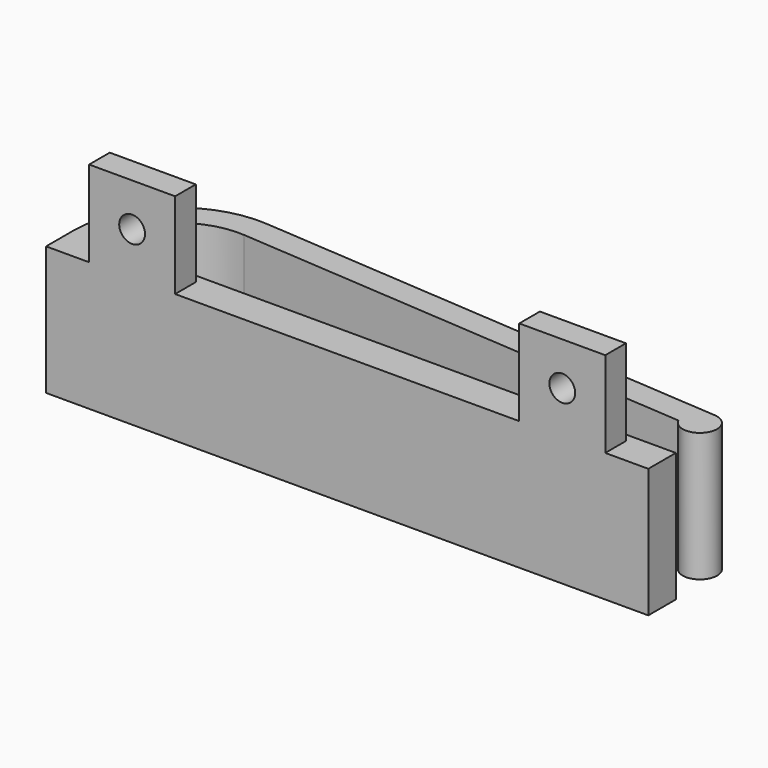
from build123d import *

# Parameters (mm, degrees)
F1_DEPTH = 15
F0_W     = 10
F0_H     = 3
F2_DEPTH = 25
F4_R     = 1.5
F3_R     = 1.5
F5_DEPTH = 5


with BuildPart() as f1:
    # F0 (on Top) → F1 (new body)
    with BuildSketch(Plane.XY):
        with BuildLine():
            Line((0, 4), (0, 0))
            Line((0, 0), (5, 0))
            Line((5, 0), (5, 3))
            Line((5, 3), (15, 3))
            Line((15, 3), (15, 0))
            Line((15, 0), (55, 0))
            Line((55, 0), (55, 3))
            Line((55, 3), (65, 3))
            Line((65, 3), (65, 0))
            Line((65, 0), (70, 0))
            Line((70, 0), (70, 4))
            Line((70, 4), (3.9, 4))
            Line((3.9, 4), (3.9, 7.923009))
            ThreePointArc((3.9, 7.923009), (7.496859, 11.792414), (12.645339, 12.976833))
            Line((12.645339, 12.976833), (66.200703, 9.12677))
            ThreePointArc((66.200703, 9.12677), (69.655888, 8.878378), (68.143409, 11.994852))
            Line((68.143409, 11.994852), (12.860452, 15.969111))
            ThreePointArc((12.860452, 15.969111), (3.824593, 12.784231), (0, 4))
        make_face()
    extrude(amount=F1_DEPTH)

    # F0 (on Top) → F2 (join)
    with BuildSketch(Plane.XY):
        with Locations((10, 1.5)):
            Rectangle(F0_W, F0_H)
        with Locations((60, 1.5)):
            Rectangle(F0_W, F0_H)
    extrude(amount=F2_DEPTH)

    # F4 (on face) + F3 (on face) → F5 (cut)
    with BuildSketch(Plane(origin=(0, 3, 0), x_dir=(-1, 0, 0), z_dir=(0, 1, 0))):
        with Locations((-60, 20)):
            Circle(F4_R)
    with BuildSketch(Plane(origin=(0, 3, 0), x_dir=(-1, 0, 0), z_dir=(0, 1, 0))):
        with Locations((-10, 20)):
            Circle(F3_R)
    extrude(amount=-F5_DEPTH, mode=Mode.SUBTRACT)


solid = f1.part
